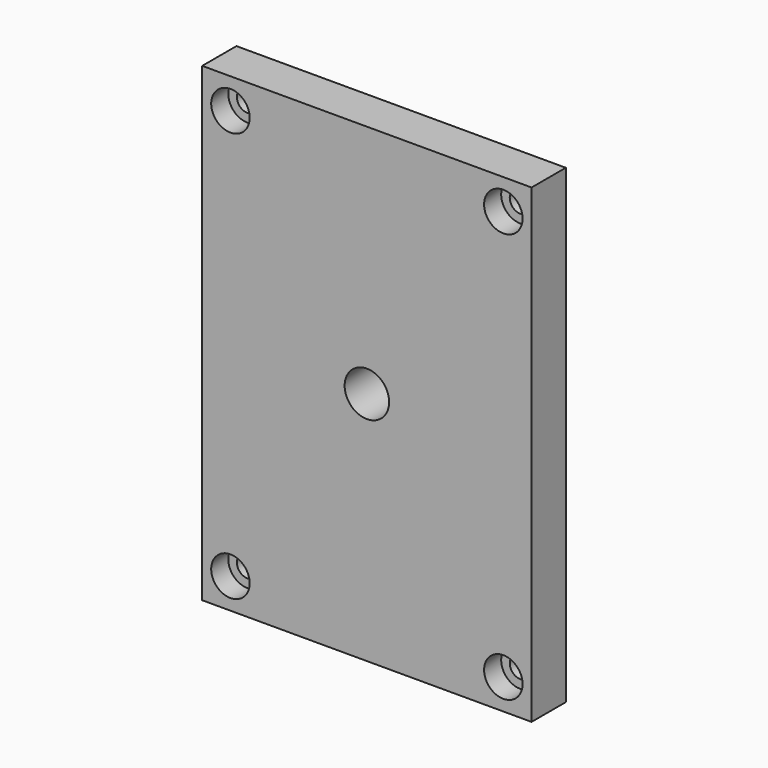
from build123d import *

# Parameters (mm, degrees)
F0_W           = 38.5
F0_H           = 55
F0_R           = 2.6
F1_DEPTH       = 5
F2_D           = 2.5
F2_CBORE_D     = 4.5
F2_CBORE_DEPTH = 2.5


with BuildPart() as f1:
    # F0 (on Front) → F1 (new body)
    with BuildSketch(Plane.XZ):
        with Locations((19.25, 27.5)):
            Rectangle(F0_W, F0_H)
        with Locations((19.25, 27.5)):
            Circle(F0_R, mode=Mode.SUBTRACT)
    extrude(amount=-F1_DEPTH)

    # F2 (through all)
    with Locations(Plane.XZ):
        with Locations((3.3, 3.55), (35.2, 3.55), (35.2, 51.45), (3.3, 51.45)):
            CounterBoreHole(F2_D / 2, F2_CBORE_D / 2, F2_CBORE_DEPTH)


solid = f1.part
